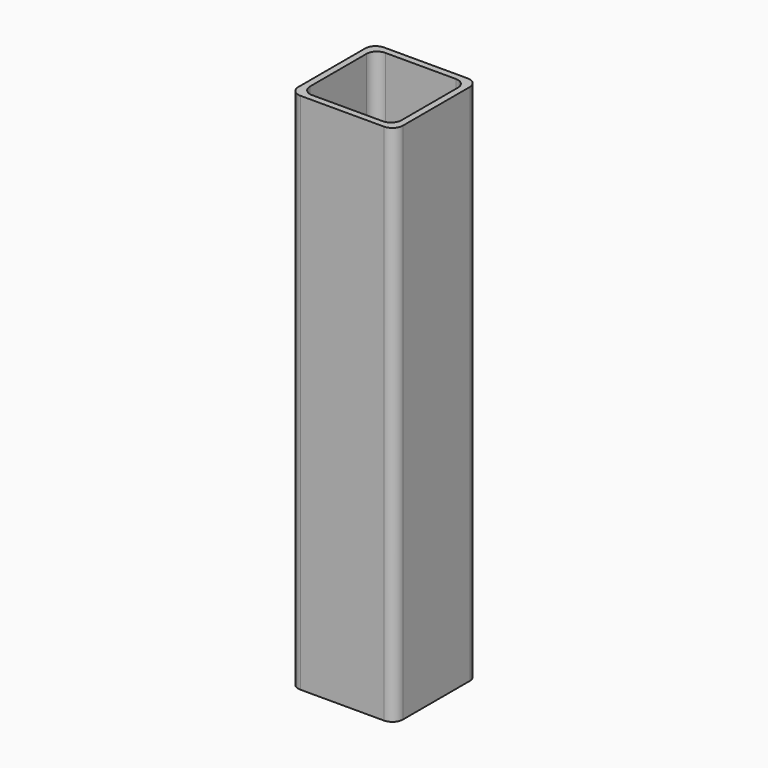
from build123d import *

# Parameters (mm, degrees)
F0_W     = 50.8
F0_H     = 50.8
F0_W_2   = 44.45
F0_H_2   = 44.45
F1_DEPTH = 254
F2_R     = 5.08


with BuildPart() as f1:
    # F0 (on Top) → F1 (new body)
    with BuildSketch(Plane.XY):
        with Locations((25.4, -25.4)):
            Rectangle(F0_W, F0_H)
        with Locations((25.4, -25.4)):
            Rectangle(F0_W_2, F0_H_2, mode=Mode.SUBTRACT)
    extrude(amount=F1_DEPTH)

    # F2
    f2_edges = [f1.edges().sort_by_distance(p)[0] for p in [
        (50.8, -50.8, 127),
        (0, -50.8, 127),
        (50.8, 0, 127),
        (0, 0, 127),
        (47.625, -3.175, 127),
        (3.175, -3.175, 127),
        (3.175, -47.625, 127),
        (47.625, -47.625, 127),
    ]]
    fillet(f2_edges, radius=F2_R)


solid = f1.part
